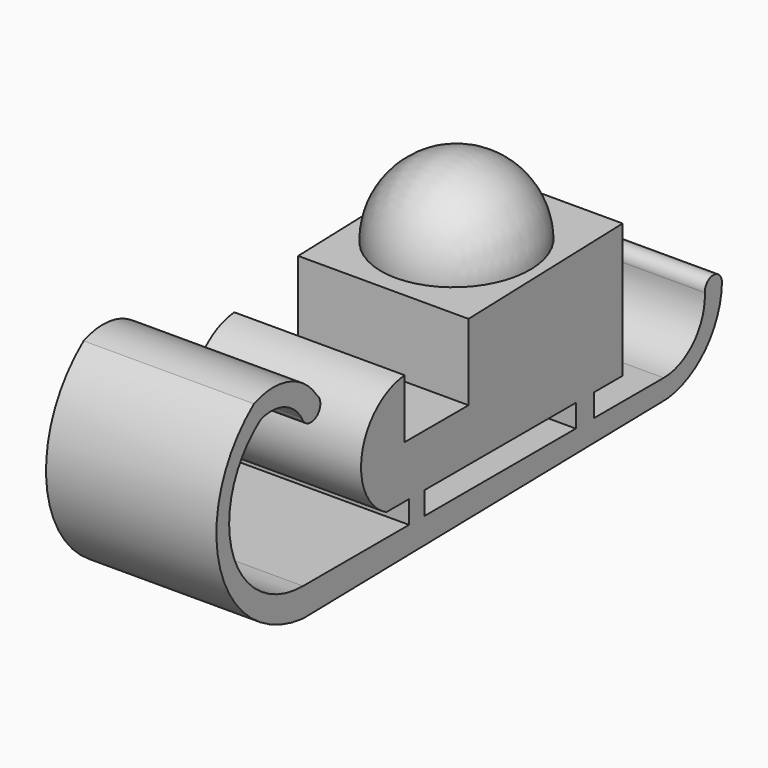
from build123d import *

# Parameters (mm, degrees)
F0_W     = 42.269897
F0_H     = 5.08
F1_DEPTH = 38.1


with BuildPart() as f1:
    # F0 (on Right) → F1 (new body)
    with BuildSketch(Plane.YZ):
        with BuildLine():
            Line((55.349641, -17.06747), (55.349641, 12.920232))
            Line((55.349641, 12.920232), (12.282199, 11.64416))
            Line((12.282199, 11.64416), (12.282199, -5.361126))
            Line((12.282199, -5.361126), (-5.582818, -5.361126))
            Line((-5.582818, -5.361126), (-5.582818, 7.815943))
            ThreePointArc((-5.582818, 7.815943), (-17.497946, -2.705151), (-10.687108, -17.06747))
            Line((-10.687108, -17.06747), (-4.34267, -17.06747))
            Line((-4.34267, -17.06747), (-4.34267, -22.14747))
            Line((-4.34267, -22.14747), (-33.97543, -22.14747))
            ThreePointArc((-33.97543, -22.14747), (-53.689509, -7.6713), (-45.779102, 15.472379))
            ThreePointArc((-45.779102, 15.472379), (-39.262575, 15.230055), (-34.294453, 11.006124))
            ThreePointArc((-34.294453, 11.006124), (-30.281476, 9.640411), (-30.147213, 13.877288))
            ThreePointArc((-30.147213, 13.877288), (-37.960494, 19.693912), (-47.693212, 19.300597))
            ThreePointArc((-47.693212, 19.300597), (-57.16721, -9.307859), (-33.97543, -28.552122))
            Line((-33.97543, -28.552122), (67.79135, -26.638012))
            ThreePointArc((67.79135, -26.638012), (78.575099, -21.230297), (83.104208, -10.049071))
            ThreePointArc((83.104208, -10.049071), (80.711581, -7.539787), (78.318954, -10.049071))
            ThreePointArc((78.318954, -10.049071), (75.174987, -18.564822), (66.834293, -22.14747))
            Line((66.834293, -22.14747), (47.349897, -22.14747))
            Line((47.349897, -22.14747), (47.349897, -17.06747))
            Line((47.349897, -17.06747), (55.349641, -17.06747))
        make_face()
        with Locations((21.134949, -19.60747)):
            Rectangle(F0_W, F0_H, mode=Mode.SUBTRACT)
    extrude(amount=F1_DEPTH)


with BuildPart() as f3:
    # F2 (on face) → F3 (revolve)
    with BuildSketch(Plane(origin=(0, -0.333936, 11.270349), x_dir=(1, 0, 0), z_dir=(0, -0.029617, 0.999561))):
        with BuildLine():
            Line((18.673385, 50.489745), (18.673385, 16.578921))
            ThreePointArc((18.673385, 16.578921), (35.628797, 33.534333), (18.673385, 50.489745))
        make_face()
    revolve(axis=Axis((18.673385, 33.185686, 12.263523), (0, -0.999561, -0.029617)))


solid = Compound([f1.part, f3.part])
